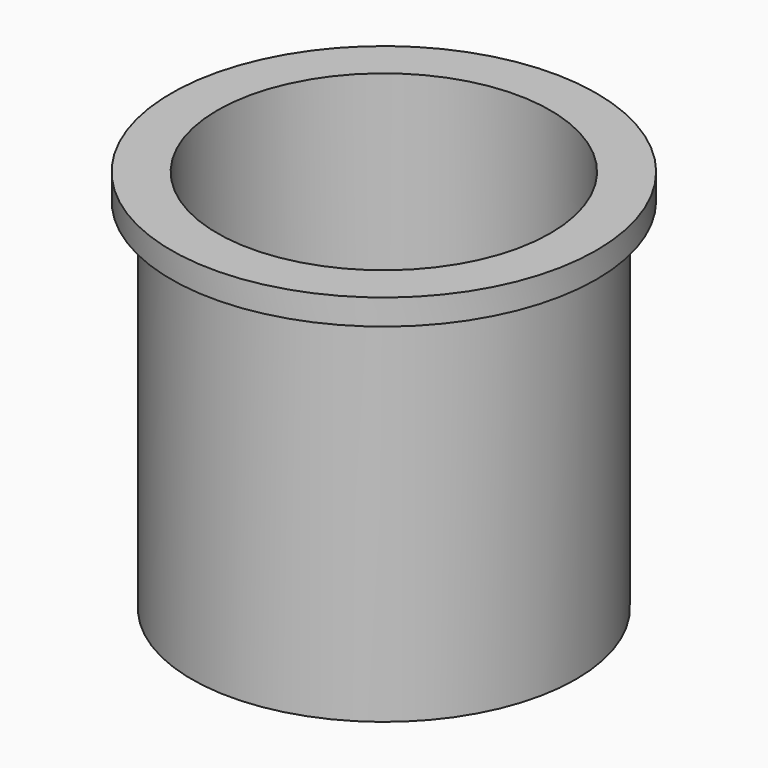
from build123d import *

# Parameters (mm, degrees)
F0_R     = 41.5
F1_DEPTH = 75
F2_R     = 32.5
F3_DEPTH = 70
F4_R     = 41.5
F4_R_2   = 37.5
F5_DEPTH = 70


with BuildPart() as f1:
    # F0 (on Top) → F1 (new body)
    with BuildSketch(Plane.XY):
        Circle(F0_R)
    extrude(amount=F1_DEPTH)

    # F2 (on face) → F3 (cut)
    with BuildSketch(Plane.XY.offset(75)):
        Circle(F2_R)
    extrude(amount=-F3_DEPTH, mode=Mode.SUBTRACT)

    # F4 (on face) → F5 (cut)
    with BuildSketch(Plane(origin=(0, 0, 0), x_dir=(1, 0, 0), z_dir=(0, 0, -1))):
        Circle(F4_R)
        Circle(F4_R_2, mode=Mode.SUBTRACT)
    extrude(amount=-F5_DEPTH, mode=Mode.SUBTRACT)


solid = f1.part
